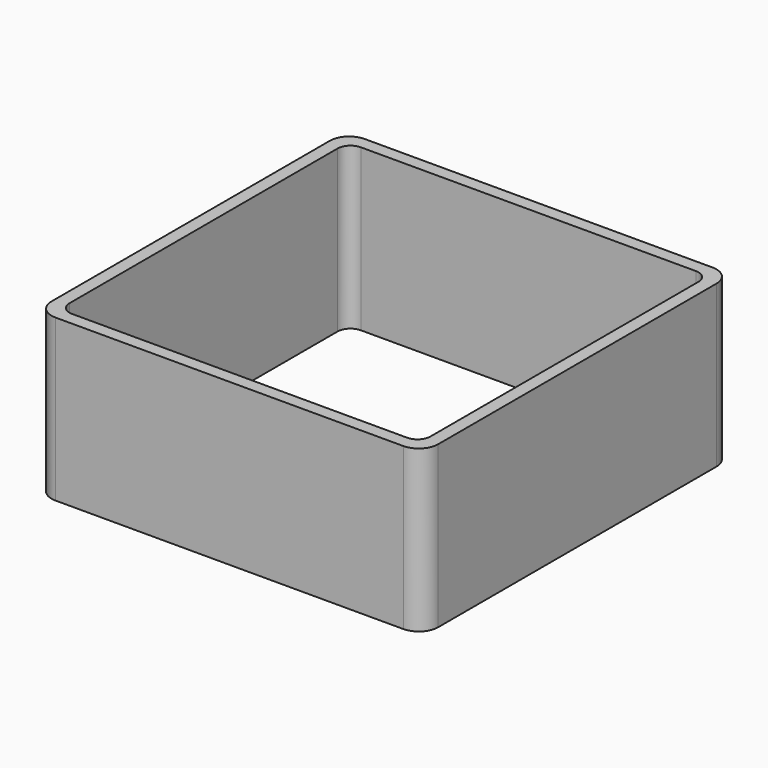
from build123d import *

# Parameters (mm, degrees)
EXTRUDE_DEPTH = 50


with BuildPart() as part:
    # Sketch → Extrude (new body)
    with BuildSketch(Plane.XY):
        with BuildLine():
            Line((-54, 60), (54, 60))
            ThreePointArc((60, 54), (58.242641, 58.242641), (54, 60))
            Line((60, 54), (60, -54))
            ThreePointArc((54, -60), (58.242641, -58.242641), (60, -54))
            Line((54, -60), (-54, -60))
            ThreePointArc((-60, -54), (-58.242641, -58.242641), (-54, -60))
            Line((-60, -54), (-60, 54))
            ThreePointArc((-54, 60), (-58.242641, 58.242641), (-60, 54))
        make_face()
        with BuildLine():
            Line((-52, 56), (52, 56))
            ThreePointArc((56, 52), (54.828427, 54.828427), (52, 56))
            Line((56, 52), (56, -52))
            ThreePointArc((52, -56), (54.828427, -54.828427), (56, -52))
            Line((52, -56), (-52, -56))
            ThreePointArc((-56, -52), (-54.828427, -54.828427), (-52, -56))
            Line((-56, -52), (-56, 52))
            ThreePointArc((-52, 56), (-54.828427, 54.828427), (-56, 52))
        make_face(mode=Mode.SUBTRACT)
    extrude(amount=EXTRUDE_DEPTH)


solid = part.part
